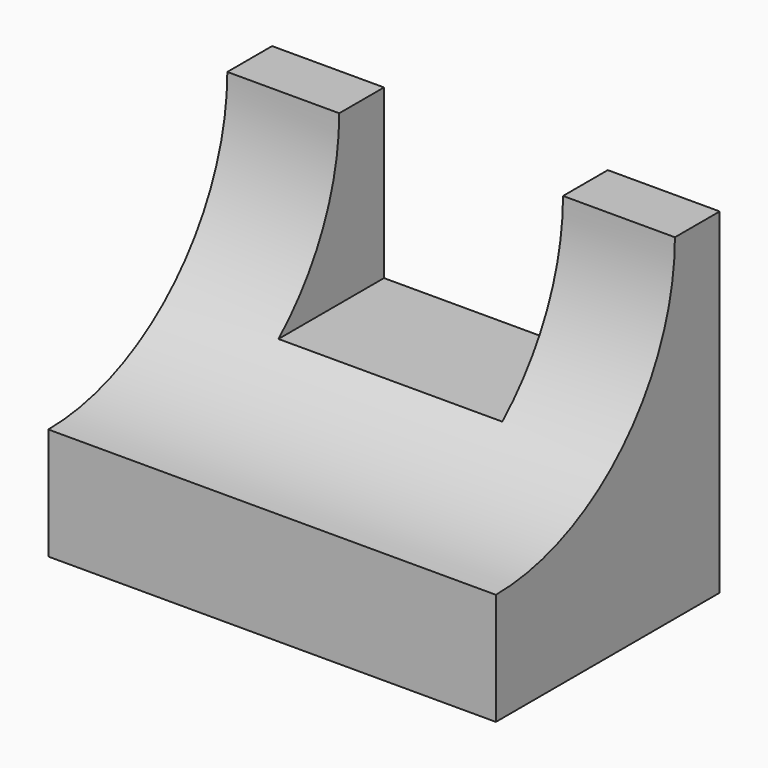
from build123d import *

# Parameters (mm, degrees)
F0_W     = 101.6
F0_H     = 76.2
F1_DEPTH = 63.5
F3_DEPTH = 127
F4_W     = 50.8
F4_H     = 38.1
F5_DEPTH = 57.15


with BuildPart() as f1:
    # F0 (on Front) → F1 (new body)
    with BuildSketch(Plane.XZ):
        with Locations((5.107021, 0.342115)):
            Rectangle(F0_W, F0_H)
    extrude(amount=F1_DEPTH)

    # F2 (on face) → F3 (cut)
    with BuildSketch(Plane(origin=(-45.692979, 0, 0), x_dir=(0, -1, 0), z_dir=(-1, 0, 0))):
        with BuildLine():
            ThreePointArc((12.7, 38.442115), (27.598959, 2.541074), (63.5, -12.357885))
            Line((63.5, -12.357885), (63.5, 38.442115))
            Line((63.5, 38.442115), (12.7, 38.442115))
        make_face()
    extrude(amount=-F3_DEPTH, mode=Mode.SUBTRACT)

    # F4 (on face) → F5 (cut)
    with BuildSketch(Plane(origin=(0, 0, 0), x_dir=(-1, 0, 0), z_dir=(0, 1, 0))):
        with Locations((-5.107021, 19.392115)):
            Rectangle(F4_W, F4_H)
    extrude(amount=-F5_DEPTH, mode=Mode.SUBTRACT)


solid = f1.part
